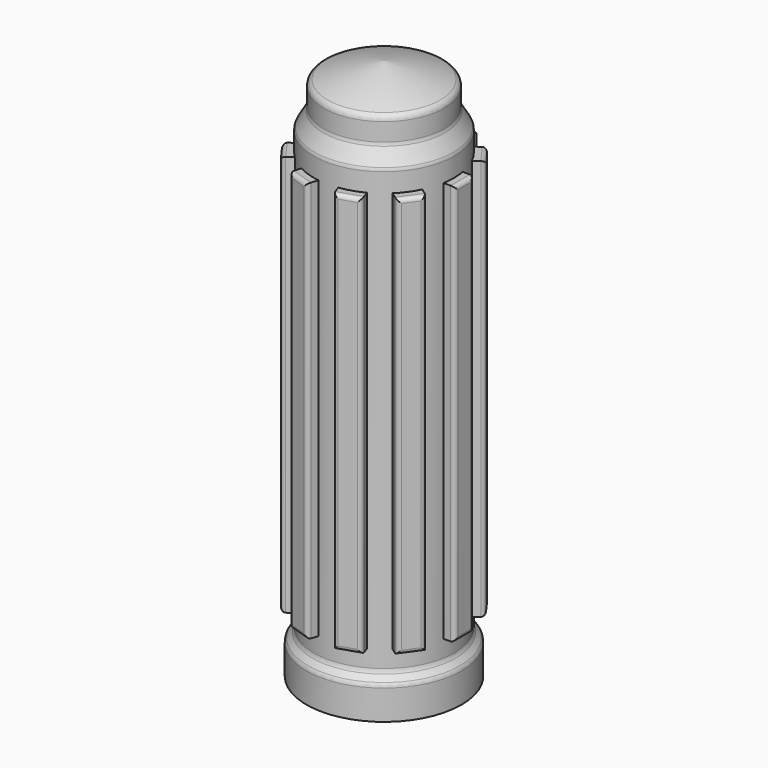
from build123d import *

# Parameters (mm, degrees)
F2_R     = 1.6
F4_W     = 6
F4_H     = 100
F6_R     = 1
F7_COUNT = 10


with BuildPart() as f1:
    # F0 (on Front) → F1 (revolve)
    with BuildSketch(Plane.XZ):
        with BuildLine():
            Line((10.75, 127), (10.75, 0))
            Line((10.75, 0), (19.325, 0))
            Line((19.325, 0), (19.325, 8))
            Line((19.325, 8), (17.5, 10.1749503065))
            Line((17.5, 10.1749503065), (17.5, 120.1749503065))
            Line((17.5, 120.1749503065), (15, 124.5050773254))
            Line((15, 124.5050773254), (15, 130.5050773254))
            ThreePointArc((15, 130.5050773254), (7.6298177205, 133.1857531912), (0, 135))
            Line((0, 135), (0, 127))
            Line((0, 127), (10.75, 127))
        make_face()
    revolve(axis=Axis((0, 0, 131), (0, 0, 1)))

    # F2
    f2_edges = [f1.edges().sort_by_distance(p)[0] for p in [
        (-15, 0, 124.505077),
        (-15, 0, 130.505077),
        (-17.5, 0, 120.17495),
        (-17.5, 0, 10.17495),
        (-19.325, 0, 8),
    ]]
    fillet(f2_edges, radius=F2_R)


with BuildPart() as f5:
    # F4 (on offset) → F5 (new body, up to the next surface of F1)
    with BuildSketch(Plane.YZ.offset(20)):
        with Locations((0, 65)):
            Rectangle(F4_W, F4_H)
    extrude(until=Until.NEXT, target=f1.part, dir=(-1, 0, 0))

    # F6
    f6_edges = [f5.edges().sort_by_distance(p)[0] for p in [
        (20, 3, 65),
        (20, -3, 65),
        (20, 0, 15),
        (20, 0, 115),
    ]]
    fillet(f6_edges, radius=F6_R)


with BuildPart() as f7_1:
    # F7: instance of F5
    add(f5.part.rotate(Axis((0, 0, 10.1749503065), (0, 0, -1)), 1 * 360 / F7_COUNT))


with BuildPart() as f7_2:
    # F7: instance of F5
    add(f5.part.rotate(Axis((0, 0, 10.1749503065), (0, 0, -1)), 2 * 360 / F7_COUNT))


with BuildPart() as f7_3:
    # F7: instance of F5
    add(f5.part.rotate(Axis((0, 0, 10.1749503065), (0, 0, -1)), 3 * 360 / F7_COUNT))


with BuildPart() as f7_4:
    # F7: instance of F5
    add(f5.part.rotate(Axis((0, 0, 10.1749503065), (0, 0, -1)), 4 * 360 / F7_COUNT))


with BuildPart() as f7_5:
    # F7: instance of F5
    add(f5.part.rotate(Axis((0, 0, 10.1749503065), (0, 0, -1)), 5 * 360 / F7_COUNT))


with BuildPart() as f7_6:
    # F7: instance of F5
    add(f5.part.rotate(Axis((0, 0, 10.1749503065), (0, 0, -1)), 6 * 360 / F7_COUNT))


with BuildPart() as f7_7:
    # F7: instance of F5
    add(f5.part.rotate(Axis((0, 0, 10.1749503065), (0, 0, -1)), 7 * 360 / F7_COUNT))


with BuildPart() as f7_8:
    # F7: instance of F5
    add(f5.part.rotate(Axis((0, 0, 10.1749503065), (0, 0, -1)), 8 * 360 / F7_COUNT))


with BuildPart() as f7_9:
    # F7: instance of F5
    add(f5.part.rotate(Axis((0, 0, 10.1749503065), (0, 0, -1)), 9 * 360 / F7_COUNT))


solid = Compound([f1.part, f5.part, f7_1.part, f7_2.part, f7_3.part, f7_4.part, f7_5.part, f7_6.part, f7_7.part, f7_8.part, f7_9.part])
